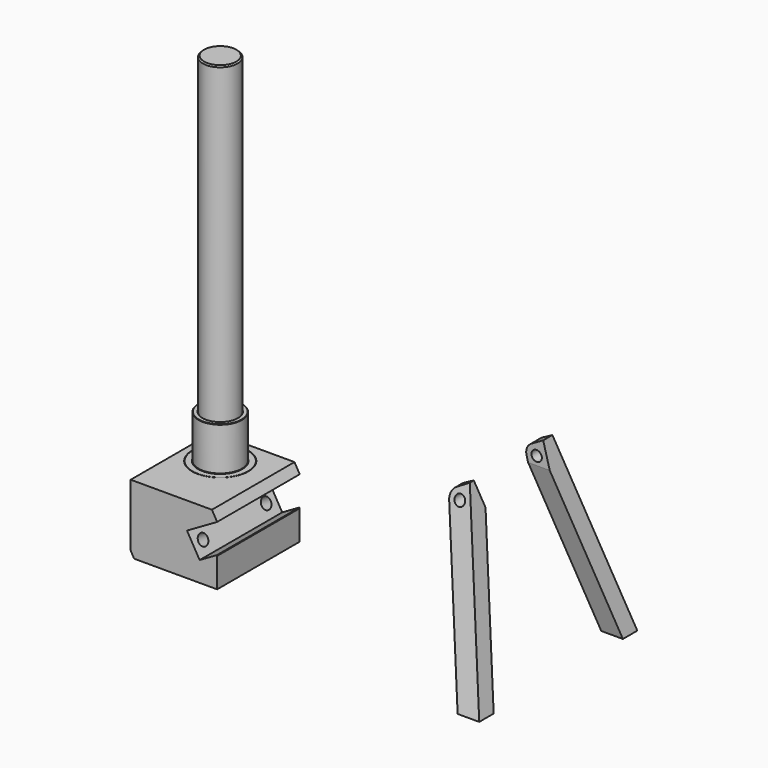
from build123d import *

# Parameters (mm, degrees)
F1_DEPTH       = 29.65
F3_D           = 6.5
F3_CBORE_D     = 10
F3_CBORE_DEPTH = 20
F4_R           = 16
F4_R_2         = 12.5
F4_R_3         = 10
F4_R_4         = 3
F5_DEPTH       = 15
F6_DEPTH       = 15
F7_DEPTH       = 25
F8_SIZE        = 0.2
F8_2_SIZE      = 0.2
F9_DEPTH       = 205
F9_DEPTH_BACK  = 15
F10_SIZE       = 0.75
F11_R          = 3
F12_DEPTH      = 60
F14_DEPTH      = 197.0761949335


with BuildPart() as f1:
    # F0 (on Front) → F1 (new body, symmetric)
    with BuildSketch(Plane.XZ):
        Polygon((24.835, 14.4538475773), (21.835, 19.65), (-24.835, 19.65), (-24.835, -16.1858983849), (-22.835, -19.65), (24.835, -19.65), (24.835, -2.7511904446), (24.635, -2.404780283), (14.7644919243, -8.1035207776), (7.5144919243, 4.4538475773), align=None)
    extrude(amount=F1_DEPTH, both=True)

    # F3 (through all)
    with Locations(Plane(origin=(-25.6349495922, 0, -14.8003450477), x_dir=(0, -1, 0), z_dir=(-0.8660254038, 0, -0.5))):
        with Locations((-22.65, -7.1501008156), (22.65, -7.1501008156)):
            CounterBoreHole(F3_D / 2, F3_CBORE_D / 2, F3_CBORE_DEPTH)

    # F4 (on face) → F5 (cut)
    with BuildSketch(Plane.XY.offset(19.65)):
        with Locations((-4.835, 9.65)):
            Circle(F4_R)
        with Locations((-4.835, 9.65)):
            Circle(F4_R_2, mode=Mode.SUBTRACT)
        with Locations((-4.835, 9.65)):
            Circle(F4_R_2)
        with Locations((-4.835, 9.65)):
            Circle(F4_R_3, mode=Mode.SUBTRACT)
        with Locations((-4.835, 9.65)):
            Circle(F4_R_3)
        with Locations((-4.835, 9.65)):
            Circle(F4_R_4, mode=Mode.SUBTRACT)
        with Locations((-4.835, 9.65)):
            Circle(F4_R_4)
    extrude(amount=-F5_DEPTH, mode=Mode.SUBTRACT)

    # F8#2
    f8_2_edges = [f1.edges().sort_by_distance(p)[0] for p in [
        (-20.835, 9.65, 19.65),
    ]]
    chamfer(f8_2_edges, length=F8_2_SIZE)


with BuildPart() as f6:
    # F4 (on face) → F6 (new body)
    with BuildSketch(Plane.XY.offset(19.65)):
        with Locations((-4.835, 9.65)):
            Circle(F4_R)
        with Locations((-4.835, 9.65)):
            Circle(F4_R_2, mode=Mode.SUBTRACT)
        with Locations((-4.835, 9.65)):
            Circle(F4_R_2)
        with Locations((-4.835, 9.65)):
            Circle(F4_R_3, mode=Mode.SUBTRACT)
    extrude(amount=-F6_DEPTH)

    # F4 (on face) → F7 (join)
    with BuildSketch(Plane.XY.offset(19.65)):
        with Locations((-4.835, 9.65)):
            Circle(F4_R_2)
        with Locations((-4.835, 9.65)):
            Circle(F4_R_3, mode=Mode.SUBTRACT)
    extrude(amount=F7_DEPTH)

    # F8
    f8_edges = [f6.edges().sort_by_distance(p)[0] for p in [
        (-17.335, 9.65, 44.65),
        (-14.835, 9.65, 44.65),
        (-17.335, 9.65, 19.65),
    ]]
    chamfer(f8_edges, length=F8_SIZE)


with BuildPart() as f9:
    # F4 (on face) → F9 (new body, two sides)
    with BuildSketch(Plane.XY.offset(19.65)) as f9_sk:
        with Locations((-4.835, 9.65)):
            Circle(F4_R_3)
        with Locations((-4.835, 9.65)):
            Circle(F4_R_4, mode=Mode.SUBTRACT)
        with Locations((-4.835, 9.65)):
            Circle(F4_R_4)
    extrude(amount=F9_DEPTH)
    extrude(f9_sk.sketch, amount=-F9_DEPTH_BACK)

    # F10
    f10_edges = [f9.edges().sort_by_distance(p)[0] for p in [
        (-14.835, 9.65, 224.65),
        (-14.835, 9.65, 4.65),
    ]]
    chamfer(f10_edges, length=F10_SIZE)


with BuildPart() as f12:
    # F11 (on Front) → F12 (new body, symmetric)
    with BuildSketch(Plane.XZ):
        with BuildLine():
            Line((197.0751949335, -19.65), (169.9708222839, 81.5048958355))
            Line((169.9708222839, 81.5048958355), (163.1990645561, 77.5952196885))
            ThreePointArc((163.1990645561, 77.5952196885), (160.6557873995, 74.6951678621), (160.4035096478, 70.8461530236))
            Line((160.4035096478, 70.8461530236), (184.6518807686, -19.65))
            Line((184.6518807686, -19.65), (197.0751949335, -19.65))
        make_face()
        with Locations((166.1990646055, 72.3990672942)):
            Circle(F11_R, mode=Mode.SUBTRACT)
    extrude(amount=F12_DEPTH, both=True)

    # F13 (on Right) → F14 (intersect, through all)
    with BuildSketch(Plane.YZ):
        Polygon((-56.7543726496, -19.65), (-46.4016108455, -19.65), (-23.0485268899, 67.5048958355), (-26.799815584, 81.5048958355), (-29.65, 81.5048958355), align=None)
        Polygon((23.0485268899, 67.5048958355), (46.4016108455, -19.65), (56.7543726496, -19.65), (29.65, 81.5048958355), (23.0485268899, 81.5048958355), align=None)
    extrude(amount=F14_DEPTH, mode=Mode.INTERSECT)


solid = Compound([f1.part, f6.part, f9.part, f12.part])
